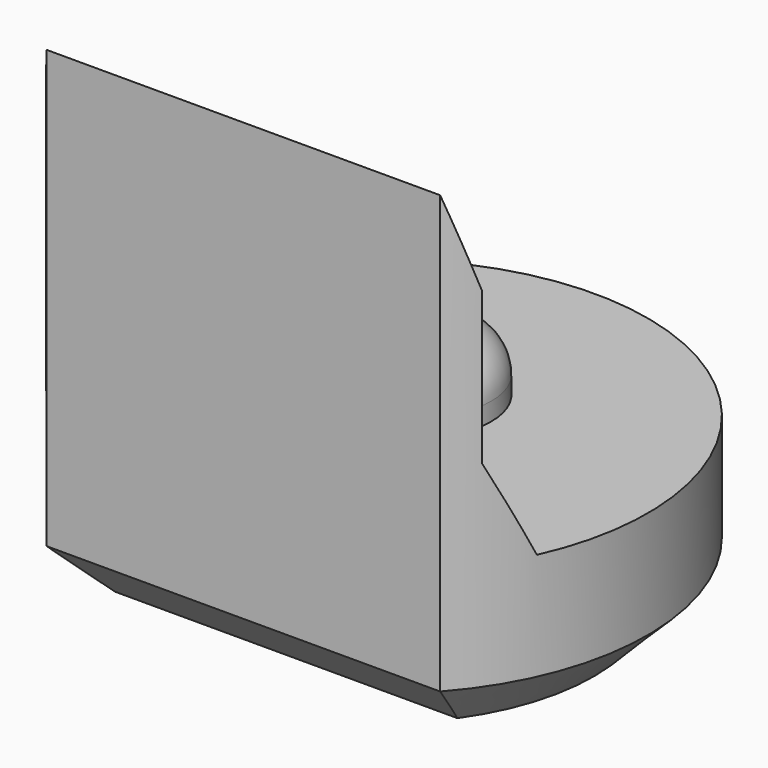
from build123d import *

# Parameters (mm, degrees)
PAD003_DEPTH         = 5.5
POCKET004_DEPTH      = 2.951
POCKET004_DEPTH_BACK = 2.951
SKETCH013_R          = 0.8
PAD006_DEPTH         = 0.7
FILLET_R             = 0.5
CHAMFER004_SIZE      = 0.6


with BuildPart() as part:
    # Sketch004 → Pad003 (new body)
    with BuildSketch(Plane.XY):
        with BuildLine():
            ThreePointArc((2.2, -1.9653244007), (0, 2.95), (-2.2, -1.9653244007))
            Line((-2.2, -1.9653244007), (2.2, -1.9653244007))
        make_face()
    extrude(amount=PAD003_DEPTH)

    # Sketch014 → Pocket004 (cut, two sides)
    with BuildSketch(Plane.YZ) as pocket004_sk:
        Polygon((-1.97, 5.5), (-1.67, 4.5), (-1.67, 2.8), (-1.22, 1.8), (4, 1.8), (4, 5.5), align=None)
    extrude(amount=-POCKET004_DEPTH, mode=Mode.SUBTRACT)
    extrude(pocket004_sk.sketch, amount=POCKET004_DEPTH_BACK, mode=Mode.SUBTRACT)

    # Sketch013 (on Face7 of Pocket004) → Pad006 (join)
    with BuildSketch(Plane.XY.offset(1.8)):
        with Locations((0, 0.5)):
            Circle(SKETCH013_R)
    extrude(amount=PAD006_DEPTH)

    # Fillet
    fillet_edges = [part.edges().sort_by_distance(p)[0] for p in [
        (-0.8, 0.5, 2.5),
    ]]
    fillet(fillet_edges, radius=FILLET_R)

    # Chamfer004
    chamfer004_edges = [part.edges().sort_by_distance(p)[0] for p in [
        (0, 2.95, 0),
        (0, -1.965324, 0),
    ]]
    chamfer(chamfer004_edges, length=CHAMFER004_SIZE)


with BuildPart() as part_1:
    # Body020 placement: moved
    add(part.part.moved(Location((0, 6, 0))))


solid = part_1.part
